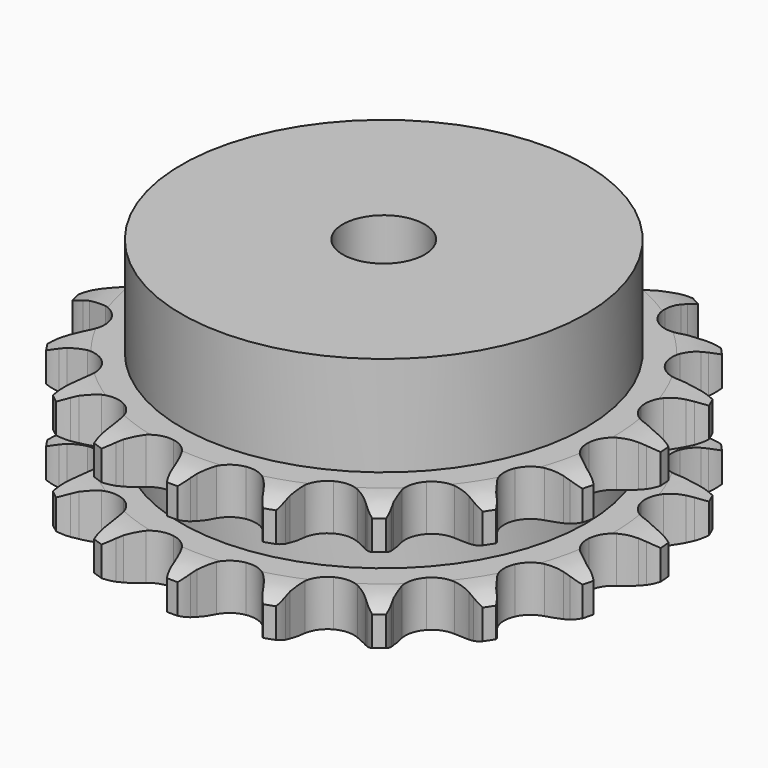
from build123d import *

# Parameters (mm, degrees)
PAD_DEPTH         = 25.5
SKETCH001_R       = 39.5
PAD001_DEPTH      = 45
SKETCH002_R       = 8
POCKET_DEPTH      = 0.001
POCKET_DEPTH_BACK = 45.001


with BuildPart() as part:
    # Sprocket → Pad (new body)
    with BuildSketch(Plane.XY):
        with BuildLine():
            ThreePointArc((-8.746489, 52.414836), (-7.326669, 50.947056), (-6.302943, 49.180066))
            Line((-6.302943, 49.180066), (-5.815796, 48.038254))
            ThreePointArc((-5.815796, 48.038254), (-5.028476, 46.48424), (-4.044391, 45.046737))
            ThreePointArc((-4.044391, 45.046737), (-2.24839, 43.5985), (0, 43.08105))
            ThreePointArc((0, 43.08105), (2.24839, 43.5985), (4.044391, 45.046737))
            ThreePointArc((4.044391, 45.046737), (5.028476, 46.48424), (5.815796, 48.038254))
            Line((5.815796, 48.038254), (6.302943, 49.180066))
            ThreePointArc((6.302943, 49.180066), (7.326669, 50.947056), (8.746489, 52.414836))
            ThreePointArc((8.746489, 52.414836), (9.612792, 50.565569), (10.007309, 48.561916))
            Line((10.007309, 48.561916), (10.097316, 47.323795))
            ThreePointArc((10.097316, 47.323795), (10.337389, 45.598339), (10.801397, 43.919193))
            ThreePointArc((10.801397, 43.919193), (12.029844, 41.966264), (13.988394, 40.7468))
            ThreePointArc((13.988394, 40.7468), (16.282976, 40.506162), (18.451907, 41.292769))
            Line((18.451907, 41.292769), (21.098676, 43.547023))
            ThreePointArc((21.098676, 43.547023), (21.503641, 44.017635), (21.930174, 44.468792))
            ThreePointArc((21.930174, 44.468792), (23.472172, 45.807638), (25.29165, 46.734875))
            ThreePointArc((25.29165, 46.734875), (25.510558, 44.704519), (25.233113, 42.68133))
            Line((25.233113, 42.68133), (24.916227, 41.481068))
            ThreePointArc((24.916227, 41.481068), (24.583037, 39.77115), (24.476686, 38.032322))
            ThreePointArc((24.476686, 38.032322), (25.004457, 35.786332), (26.460928, 33.997002))
            ThreePointArc((26.460928, 33.997002), (28.553049, 33.024353), (30.859872, 33.064089))
            Line((30.859872, 33.064089), (34.095187, 34.336797))
            ThreePointArc((34.095187, 34.336797), (34.631017, 34.650417), (35.180929, 34.938634))
            ThreePointArc((35.180929, 34.938634), (37.0741, 35.704252), (39.096067, 35.990465))
            ThreePointArc((39.096067, 35.990465), (38.643859, 33.99904), (37.724519, 32.175559))
            Line((37.724519, 32.175559), (37.035078, 31.143224))
            ThreePointArc((37.035078, 31.143224), (36.164732, 29.634141), (35.499546, 28.024059))
            ThreePointArc((35.499546, 28.024059), (35.26945, 25.728396), (36.066011, 23.563101))
            ThreePointArc((36.066011, 23.563101), (37.728956, 21.963843), (39.923691, 21.252401))
            Line((39.923691, 21.252401), (43.396955, 21.405646))
            ThreePointArc((43.396955, 21.405646), (44.005585, 21.528289), (44.619286, 21.622333))
            ThreePointArc((44.619286, 21.622333), (46.658475, 21.731757), (48.66382, 21.34593))
            ThreePointArc((48.66382, 21.34593), (47.589498, 19.609237), (46.127887, 18.183067))
            Line((46.127887, 18.183067), (45.140603, 17.430528))
            ThreePointArc((45.140603, 17.430528), (43.827416, 16.285812), (42.67548, 14.978954))
            ThreePointArc((42.67548, 14.978954), (41.71245, 12.882389), (41.762781, 10.575772))
            ThreePointArc((41.762781, 10.575772), (42.816345, 8.523209), (44.661159, 7.137686))
            Line((44.661159, 7.137686), (47.99599, 6.15486))
            ThreePointArc((47.99599, 6.15486), (48.611465, 6.073237), (49.22245, 5.962917))
            ThreePointArc((49.22245, 5.962917), (51.18668, 5.404288), (52.958092, 4.388233))
            ThreePointArc((52.958092, 4.388233), (51.378077, 3.09447), (49.532584, 2.220158))
            Line((49.532584, 2.220158), (48.354444, 1.828964))
            ThreePointArc((48.354444, 1.828964), (46.740721, 1.172663), (45.226863, 0.310648))
            ThreePointArc((45.226863, 0.310648), (43.63526, -1.359625), (42.933906, -3.557605))
            ThreePointArc((42.933906, -3.557605), (43.263919, -5.841046), (44.558897, -7.750508))
            Line((44.558897, -7.750508), (47.393915, -9.762899))
            ThreePointArc((47.393915, -9.762899), (47.949539, -10.039945), (48.491598, -10.342673))
            ThreePointArc((48.491598, -10.342673), (50.168014, -11.508819), (51.513533, -13.044998))
            ThreePointArc((51.513533, -13.044998), (49.599044, -13.755631), (47.569656, -13.98334))
            Line((47.569656, -13.98334), (46.328331, -13.970796))
            ThreePointArc((46.328331, -13.970796), (44.588942, -14.067562), (42.877214, -14.391323))
            ThreePointArc((42.877214, -14.391323), (40.829511, -15.454302), (39.452476, -17.305461))
            ThreePointArc((39.452476, -17.305461), (39.023176, -19.572334), (39.627987, -21.798814))
            Line((39.627987, -21.798814), (41.655974, -24.622698))
            ThreePointArc((41.655974, -24.622698), (42.091536, -25.065143), (42.505929, -25.527475))
            ThreePointArc((42.505929, -25.527475), (43.712865, -27.174767), (44.486684, -29.064601))
            ThreePointArc((44.486684, -29.064601), (42.445185, -29.115097), (40.451818, -28.671526))
            Line((40.451818, -28.671526), (39.281824, -28.256604))
            ThreePointArc((39.281824, -28.256604), (37.60526, -27.783349), (35.881154, -27.53377))
            ThreePointArc((35.881154, -27.53377), (33.599252, -27.874266), (31.695758, -29.178001))
            ThreePointArc((31.695758, -29.178001), (30.553666, -31.182655), (30.40277, -33.48488))
            Line((30.40277, -33.48488), (31.403961, -36.814244))
            ThreePointArc((31.403961, -36.814244), (31.672262, -37.374144), (31.914083, -37.945978))
            ThreePointArc((31.914083, -37.945978), (32.520749, -39.895907), (32.639012, -41.934603))
            ThreePointArc((32.639012, -41.934603), (30.691731, -41.319489), (28.950397, -40.252707))
            Line((28.950397, -40.252707), (27.978522, -39.480371))
            ThreePointArc((27.978522, -39.480371), (26.546465, -38.488379), (24.996813, -37.692506))
            ThreePointArc((24.996813, -37.692506), (22.727992, -37.273621), (20.504313, -37.888652))
            ThreePointArc((20.504313, -37.888652), (18.773193, -39.413852), (17.882941, -41.542341))
            Line((17.882941, -41.542341), (17.748842, -45.016397))
            ThreePointArc((17.748842, -45.016397), (17.820807, -45.633076), (17.863851, -46.252446))
            ThreePointArc((17.863851, -46.252446), (17.804505, -48.293707), (17.254397, -50.260341))
            ThreePointArc((17.254397, -50.260341), (15.612352, -49.046274), (14.311752, -47.471883))
            Line((14.311752, -47.471883), (13.643313, -46.425827))
            ThreePointArc((13.643313, -46.425827), (12.610948, -45.022595), (11.40368, -43.766674))
            ThreePointArc((11.40368, -43.766674), (9.393802, -42.633801), (7.090908, -42.49348))
            ThreePointArc((7.090908, -42.49348), (4.958352, -43.373946), (3.425218, -45.098044))
            Line((3.425218, -45.098044), (2.170361, -48.340324))
            ThreePointArc((2.170361, -48.340324), (2.038191, -48.946956), (1.877793, -49.546744))
            ThreePointArc((1.877793, -49.546744), (1.158867, -51.458134), (0, -53.13959))
            ThreePointArc((0, -53.13959), (-1.158867, -51.458134), (-1.877793, -49.546744))
            Line((-1.877793, -49.546744), (-2.170361, -48.340324))
            ThreePointArc((-2.170361, -48.340324), (-2.691161, -46.677915), (-3.425218, -45.098044))
            ThreePointArc((-3.425218, -45.098044), (-4.958352, -43.373946), (-7.090908, -42.49348))
            ThreePointArc((-7.090908, -42.49348), (-9.393802, -42.633801), (-11.40368, -43.766674))
            Line((-11.40368, -43.766674), (-13.643313, -46.425827))
            ThreePointArc((-13.643313, -46.425827), (-13.965295, -46.956675), (-14.311752, -47.471883))
            ThreePointArc((-14.311752, -47.471883), (-15.612352, -49.046274), (-17.254397, -50.260341))
            ThreePointArc((-17.254397, -50.260341), (-17.804505, -48.293707), (-17.863851, -46.252446))
            Line((-17.863851, -46.252446), (-17.748842, -45.016397))
            ThreePointArc((-17.748842, -45.016397), (-17.70164, -43.274959), (-17.882941, -41.542341))
            ThreePointArc((-17.882941, -41.542341), (-18.773193, -39.413852), (-20.504313, -37.888652))
            ThreePointArc((-20.504313, -37.888652), (-22.727992, -37.273621), (-24.996813, -37.692506))
            Line((-24.996813, -37.692506), (-27.978522, -39.480371))
            ThreePointArc((-27.978522, -39.480371), (-28.455424, -39.877909), (-28.950397, -40.252707))
            ThreePointArc((-28.950397, -40.252707), (-30.691731, -41.319489), (-32.639012, -41.934603))
            ThreePointArc((-32.639012, -41.934603), (-32.520749, -39.895907), (-31.914083, -37.945978))
            Line((-31.914083, -37.945978), (-31.403961, -36.814244))
            ThreePointArc((-31.403961, -36.814244), (-30.793873, -35.182489), (-30.40277, -33.48488))
            ThreePointArc((-30.40277, -33.48488), (-30.553666, -31.182655), (-31.695758, -29.178001))
            ThreePointArc((-31.695758, -29.178001), (-33.599252, -27.874266), (-35.881154, -27.53377))
            Line((-35.881154, -27.53377), (-39.281824, -28.256604))
            ThreePointArc((-39.281824, -28.256604), (-39.861967, -28.477753), (-40.451818, -28.671526))
            ThreePointArc((-40.451818, -28.671526), (-42.445185, -29.115097), (-44.486684, -29.064601))
            ThreePointArc((-44.486684, -29.064601), (-43.712865, -27.174767), (-42.505929, -25.527475))
            Line((-42.505929, -25.527475), (-41.655974, -24.622698))
            ThreePointArc((-41.655974, -24.622698), (-40.549111, -23.27745), (-39.627987, -21.798814))
            ThreePointArc((-39.627987, -21.798814), (-39.023176, -19.572334), (-39.452476, -17.305461))
            ThreePointArc((-39.452476, -17.305461), (-40.829511, -15.454302), (-42.877214, -14.391323))
            Line((-42.877214, -14.391323), (-46.328331, -13.970796))
            ThreePointArc((-46.328331, -13.970796), (-46.948846, -13.99159), (-47.569656, -13.98334))
            ThreePointArc((-47.569656, -13.98334), (-49.599044, -13.755631), (-51.513533, -13.044998))
            ThreePointArc((-51.513533, -13.044998), (-50.168014, -11.508819), (-48.491598, -10.342673))
            Line((-48.491598, -10.342673), (-47.393915, -9.762899))
            ThreePointArc((-47.393915, -9.762899), (-45.910224, -8.849939), (-44.558897, -7.750508))
            ThreePointArc((-44.558897, -7.750508), (-43.263919, -5.841046), (-42.933906, -3.557605))
            ThreePointArc((-42.933906, -3.557605), (-43.63526, -1.359625), (-45.226863, 0.310648))
            Line((-45.226863, 0.310648), (-48.354444, 1.828964))
            ThreePointArc((-48.354444, 1.828964), (-48.94809, 2.010779), (-49.532584, 2.220158))
            ThreePointArc((-49.532584, 2.220158), (-51.378077, 3.09447), (-52.958092, 4.388233))
            ThreePointArc((-52.958092, 4.388233), (-51.18668, 5.404288), (-49.22245, 5.962917))
            Line((-49.22245, 5.962917), (-47.99599, 6.15486))
            ThreePointArc((-47.99599, 6.15486), (-46.296252, 6.536601), (-44.661159, 7.137686))
            ThreePointArc((-44.661159, 7.137686), (-42.816345, 8.523209), (-41.762781, 10.575772))
            ThreePointArc((-41.762781, 10.575772), (-41.71245, 12.882389), (-42.67548, 14.978954))
            Line((-42.67548, 14.978954), (-45.140603, 17.430528))
            ThreePointArc((-45.140603, 17.430528), (-45.643049, 17.795248), (-46.127887, 18.183067))
            ThreePointArc((-46.127887, 18.183067), (-47.589498, 19.609237), (-48.66382, 21.34593))
            ThreePointArc((-48.66382, 21.34593), (-46.658475, 21.731757), (-44.619286, 21.622333))
            Line((-44.619286, 21.622333), (-43.396955, 21.405646))
            ThreePointArc((-43.396955, 21.405646), (-41.665363, 21.214798), (-39.923691, 21.252401))
            ThreePointArc((-39.923691, 21.252401), (-37.728956, 21.963843), (-36.066011, 23.563101))
            ThreePointArc((-36.066011, 23.563101), (-35.26945, 25.728396), (-35.499546, 28.024059))
            Line((-35.499546, 28.024059), (-37.035078, 31.143224))
            ThreePointArc((-37.035078, 31.143224), (-37.391875, 31.651326), (-37.724519, 32.175559))
            ThreePointArc((-37.724519, 32.175559), (-38.643859, 33.99904), (-39.096067, 35.990465))
            ThreePointArc((-39.096067, 35.990465), (-37.0741, 35.704252), (-35.180929, 34.938634))
            Line((-35.180929, 34.938634), (-34.095187, 34.336797))
            ThreePointArc((-34.095187, 34.336797), (-32.519385, 33.594043), (-30.859872, 33.064089))
            ThreePointArc((-30.859872, 33.064089), (-28.553049, 33.024353), (-26.460928, 33.997002))
            ThreePointArc((-26.460928, 33.997002), (-25.004457, 35.786332), (-24.476686, 38.032322))
            Line((-24.476686, 38.032322), (-24.916227, 41.481068))
            ThreePointArc((-24.916227, 41.481068), (-25.088711, 42.077492), (-25.233113, 42.68133))
            ThreePointArc((-25.233113, 42.68133), (-25.510558, 44.704519), (-25.29165, 46.734875))
            ThreePointArc((-25.29165, 46.734875), (-23.472172, 45.807638), (-21.930174, 44.468792))
            Line((-21.930174, 44.468792), (-21.098676, 43.547023))
            ThreePointArc((-21.098676, 43.547023), (-19.849427, 42.332852), (-18.451907, 41.292769))
            ThreePointArc((-18.451907, 41.292769), (-16.282976, 40.506162), (-13.988394, 40.7468))
            ThreePointArc((-13.988394, 40.7468), (-12.029844, 41.966264), (-10.801397, 43.919193))
            Line((-10.801397, 43.919193), (-10.097316, 47.323795))
            ThreePointArc((-10.097316, 47.323795), (-10.066797, 47.943909), (-10.007309, 48.561916))
            ThreePointArc((-10.007309, 48.561916), (-9.612792, 50.565569), (-8.746489, 52.414836))
        make_face()
    extrude(amount=PAD_DEPTH)

    # Sketch → Groove (revolve, cut)
    with BuildSketch(Plane.XZ):
        with BuildLine():
            ThreePointArc((44.675762, 0), (48.25347, 0.405129), (51.65, 1.6))
            Line((51.65, 1.6), (51.65, 7.4))
            ThreePointArc((51.65, 7.4), (48.25347, 8.594871), (44.675762, 9))
            Line((39.5, 9), (44.675762, 9))
            Line((39.5, 16.5), (39.5, 9))
            Line((44.675762, 16.5), (39.5, 16.5))
            ThreePointArc((44.675762, 16.5), (48.25347, 16.905129), (51.65, 18.1))
            Line((51.65, 18.1), (51.65, 23.9))
            ThreePointArc((51.65, 23.9), (48.25347, 25.094871), (44.675762, 25.5))
            Line((44.675762, 25.5), (54.675762, 25.5))
            Line((54.675762, 25.5), (54.675762, 0))
            Line((44.675762, 0), (54.675762, 0))
        make_face()
    revolve(axis=Axis((0, 0, 0), (0, 0, 1)), mode=Mode.SUBTRACT)

    # Sketch001 → Pad001 (join)
    with BuildSketch(Plane.XY):
        Circle(SKETCH001_R)
    extrude(amount=PAD001_DEPTH)

    # Sketch002 → Pocket (cut, two sides)
    with BuildSketch(Plane.XY) as pocket_sk:
        Circle(SKETCH002_R)
    extrude(amount=-POCKET_DEPTH, mode=Mode.SUBTRACT)
    extrude(pocket_sk.sketch, amount=POCKET_DEPTH_BACK, mode=Mode.SUBTRACT)


solid = part.part
